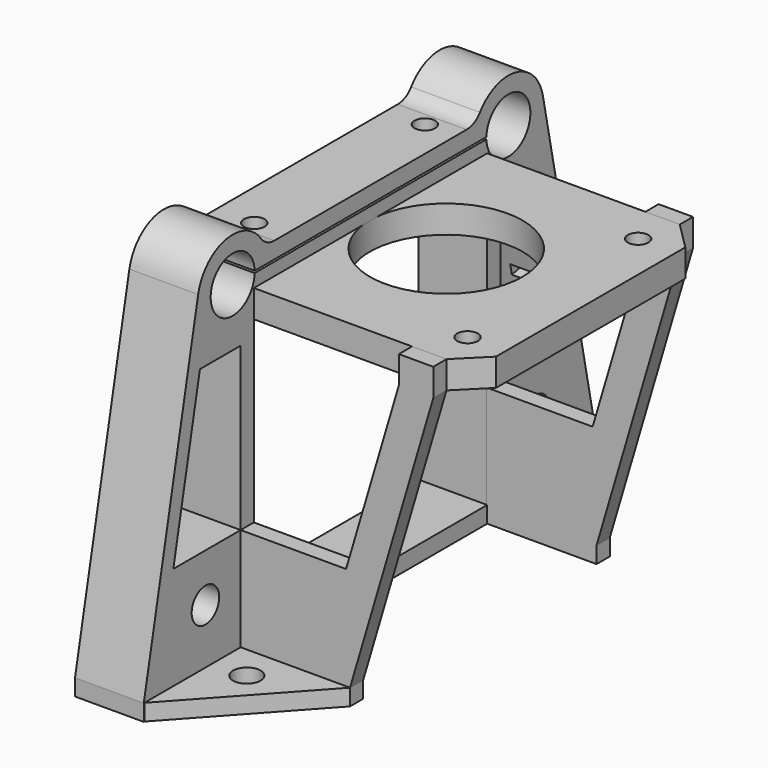
from build123d import *

# Parameters (mm, degrees)
SKETCH015_W     = 42
SKETCH015_H     = 42.4
PAD004_DEPTH    = 4
CHAMFER003_SIZE = 4
SKETCH018_R     = 11.1
SKETCH018_R_2   = 1.5
POCKET010_DEPTH = 4.001
SKETCH019_R     = 2.5
SKETCH019_W     = 42.4
SKETCH019_H     = 45
PAD006_DEPTH    = 10
SKETCH020_R     = 1.5
POCKET011_DEPTH = 12.401
FILLET004_R     = 3
SKETCH_W        = 1.5
SKETCH_H        = 4
SKETCH_W_2      = 1.5000000001
SKETCH_H_2      = 4.0000000001
POCKET_DEPTH    = 2.2533090509
PAD007_DEPTH    = 2.4
PAD008_DEPTH    = 2.4
SKETCH023_R     = 2
PAD009_DEPTH    = 2.4
SKETCH024_R     = 2
PAD010_DEPTH    = 2.4


with BuildPart() as motorplate:
    # Sketch015 → Pad004 (new body)
    with BuildSketch(Plane.XY):
        Rectangle(SKETCH015_W, SKETCH015_H)
    extrude(amount=PAD004_DEPTH)

    # Chamfer003
    chamfer003_edges = [motorplate.edges().sort_by_distance(p)[0] for p in [
        (21, -21.2, 2),
        (21, 21.2, 2),
    ]]
    chamfer(chamfer003_edges, length=CHAMFER003_SIZE)

    # Sketch018 → Pocket010 (cut, through all)
    with BuildSketch(Plane(origin=(0, 0, 0), x_dir=(1, 0, 0), z_dir=(0, 0, -1))):
        Circle(SKETCH018_R)
        with Locations((-15.5, 15.5)):
            Circle(SKETCH018_R_2)
        with Locations((15.5, 15.5)):
            Circle(SKETCH018_R_2)
        with Locations((-15.5, -15.5)):
            Circle(SKETCH018_R_2)
        with Locations((15.5, -15.5)):
            Circle(SKETCH018_R_2)
    extrude(amount=-POCKET010_DEPTH, mode=Mode.SUBTRACT)


with BuildPart() as rodholder:
    # Sketch019 → Pad006 (new body)
    with BuildSketch(Plane(origin=(-21.2, 0, 0), x_dir=(0, -1, 0), z_dir=(-1, 0, 0))):
        with BuildLine():
            ThreePointArc((-19.1799488929, 8.55), (-25.7143172438, 12.3654287051), (-31.3200773591, 7.2830159436))
            Line((-31.3200773591, 7.2830159436), (-41.2, -41))
            Line((-41.2, -41), (-41.2, -43.4))
            Line((-41.2, -43.4), (41.2, -43.4))
            Line((41.2, -41), (41.2, -43.4))
            Line((41.2, -41), (31.3200773591, 7.2830159436))
            ThreePointArc((31.3200773591, 7.2830159436), (25.7143172438, 12.3654287051), (19.1799488929, 8.55))
            Line((-19.1799488929, 8.55), (19.1799488929, 8.55))
        make_face()
        with Locations((-30, -33)):
            Circle(SKETCH019_R, mode=Mode.SUBTRACT)
        with Locations((30, -33)):
            Circle(SKETCH019_R, mode=Mode.SUBTRACT)
        with Locations((0, -18.5)):
            Rectangle(SKETCH019_W, SKETCH019_H, mode=Mode.SUBTRACT)
        with BuildLine():
            ThreePointArc((21.0528134895, 5.85), (29.05, 6), (21.0528134895, 6.15))
            Line((-21.0528134895, 6.15), (21.0528134895, 6.15))
            ThreePointArc((-21.0528134895, 6.15), (-29.05, 6), (-21.0528134895, 5.85))
            Line((-21.0528134895, 5.85), (21.0528134895, 5.85))
        make_face(mode=Mode.SUBTRACT)
        Polygon((-31.001466603, -2.4), (-23.6, -2.4), (-23.6, -26), (-35.8306217369, -26), align=None, mode=Mode.SUBTRACT)
        Polygon((23.6, -2.4), (23.6, -26), (35.8306217369, -26), (31.001466603, -2.4), align=None, mode=Mode.SUBTRACT)
    extrude(amount=-PAD006_DEPTH)

    # Sketch020 → Pocket011 (cut, through all)
    with BuildSketch(Plane.XY):
        with Locations((-15.7, 15.5)):
            Circle(SKETCH020_R)
        with Locations((-15.7, -15.5)):
            Circle(SKETCH020_R)
    extrude(amount=POCKET011_DEPTH, mode=Mode.SUBTRACT)

    # Fillet004
    fillet004_edges = [rodholder.edges().sort_by_distance(p)[0] for p in [
        (-16.2, -19.179949, 8.55),
        (-16.2, 19.179949, 8.55),
    ]]
    fillet(fillet004_edges, radius=FILLET004_R)

    # Sketch (on Face12 of Fillet004) → Pocket (cut)
    with BuildSketch(Plane(origin=(-21.2, 31.4917595132, 6.4440081411), x_dir=(0, 0.2004712412, -0.9796995874), z_dir=(0, 0.9796995874, 0.2004712412))):
        with Locations((29.4533105631, -5)):
            Rectangle(SKETCH_W, SKETCH_H)
        with Locations((24.9533105631, -5)):
            Rectangle(SKETCH_W, SKETCH_H)
        with Locations((19.4533105631, -5)):
            Rectangle(SKETCH_W, SKETCH_H)
        with Locations((14.953310563, -5)):
            Rectangle(SKETCH_W_2, SKETCH_H_2)
    extrude(amount=-POCKET_DEPTH, mode=Mode.SUBTRACT)


with BuildPart() as rodholder_1:
    # Body002 placement: moved
    add(rodholder.part.moved(Location((0.2, 0, 0))))


with BuildPart() as rightsupport:
    # Sketch021 → Pad007 (new body)
    with BuildSketch(Plane.XZ):
        Polygon((-11.1, -43.4), (4.9, -43.4), (4.9, -41), (17, 0), (17, 4), (12, 4), (12, 0), (4.3268292683, -26), (-11.1, -26), align=None)
    extrude(amount=PAD007_DEPTH)


with BuildPart() as rightsupport_1:
    # Body003 placement: moved
    add(rightsupport.part.moved(Location((0, -21.2, 0))))


with BuildPart() as leftsupport:
    # Sketch022 → Pad008 (new body)
    with BuildSketch(Plane.XZ):
        Polygon((12, 4), (17, 4), (17, 0), (4.9, -41), (4.9, -43.4), (-11.1, -43.4), (-11.1, -26), (4.3268292683, -26), (12, 0), align=None)
    extrude(amount=-PAD008_DEPTH)


with BuildPart() as leftsupport_1:
    # Body004 placement: moved
    add(leftsupport.part.moved(Location((0, 21.2, 0))))


with BuildPart() as rightmountingplate:
    # Sketch023 → Pad009 (new body)
    with BuildSketch(Plane.XY):
        Polygon((-11.1, -23.6), (-11.1, -41.2), (4.9, -23.6), align=None)
        with Locations((-6.1, -28.6)):
            Circle(SKETCH023_R, mode=Mode.SUBTRACT)
    extrude(amount=-PAD009_DEPTH)


with BuildPart() as rightmountingplate_1:
    # Body005 placement: moved
    add(rightmountingplate.part.moved(Location((0, 0, -41))))


with BuildPart() as leftmountingplate:
    # Sketch024 → Pad010 (new body)
    with BuildSketch(Plane.XY):
        Polygon((-11.1, 41.2), (-11.1, 23.6), (4.9, 23.6), align=None)
        with Locations((-6.1, 28.6)):
            Circle(SKETCH024_R, mode=Mode.SUBTRACT)
    extrude(amount=-PAD010_DEPTH)


with BuildPart() as leftmountingplate_1:
    # Body006 placement: moved
    add(leftmountingplate.part.moved(Location((0, 0, -41))))


solid = Compound([motorplate.part, rodholder_1.part, rightsupport_1.part, leftsupport_1.part, rightmountingplate_1.part, leftmountingplate_1.part])
